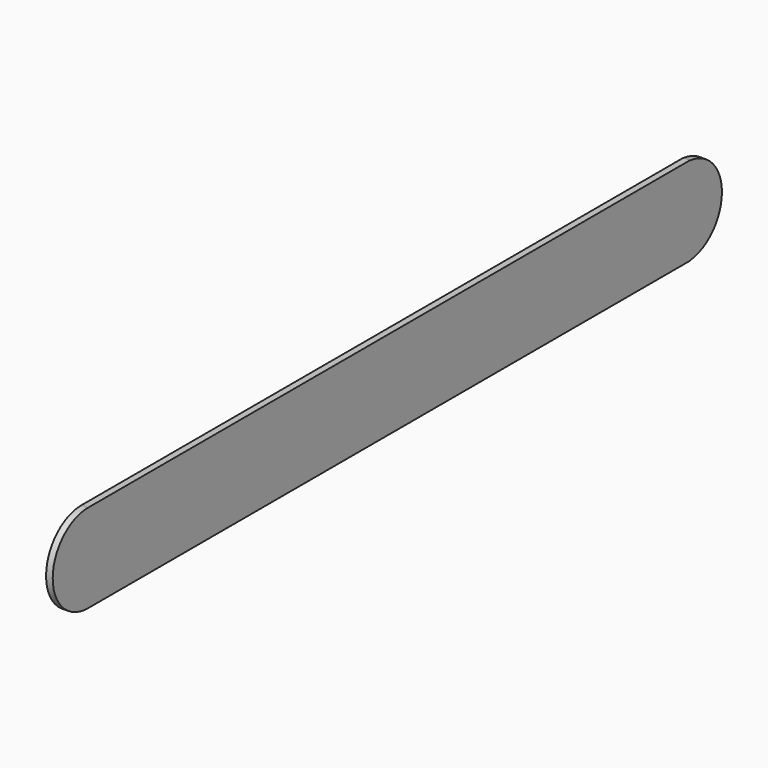
from build123d import *

# Parameters (mm, degrees)
CYLINDER001_R     = 10
CYLINDER001_DEPTH = 1.5
BOX001_W          = 1.5
BOX001_H          = 170
BOX001_DEPTH      = 20
CYLINDER_R        = 10
CYLINDER_DEPTH    = 1.5


with BuildPart() as cylinder001:
    # Cylinder001 → Cylinder001 (new body)
    with BuildSketch(Plane(origin=(0, 169, 0), x_dir=(0, 0, -1), z_dir=(1, 0, 0))):
        Circle(CYLINDER001_R)
    extrude(amount=CYLINDER001_DEPTH)


with BuildPart() as cube001:
    # Box001 → Box001 (new body)
    with BuildSketch(Plane.XY.offset(-10)):
        with Locations((0.75, 85)):
            Rectangle(BOX001_W, BOX001_H)
    extrude(amount=BOX001_DEPTH)


with BuildPart() as front:
    # Cylinder → Cylinder (new body)
    with BuildSketch(Plane(origin=(0, 0, 0), x_dir=(0, 0, -1), z_dir=(1, 0, 0))):
        Circle(CYLINDER_R)
    extrude(amount=CYLINDER_DEPTH)

    # Fusion: union Cylinder001, Cube001
    add(cylinder001.part)
    add(cube001.part)


with BuildPart() as front_1:
    # Fusion placement: moved
    add(front.part.moved(Location((149, 0, 0))))


solid = front_1.part
